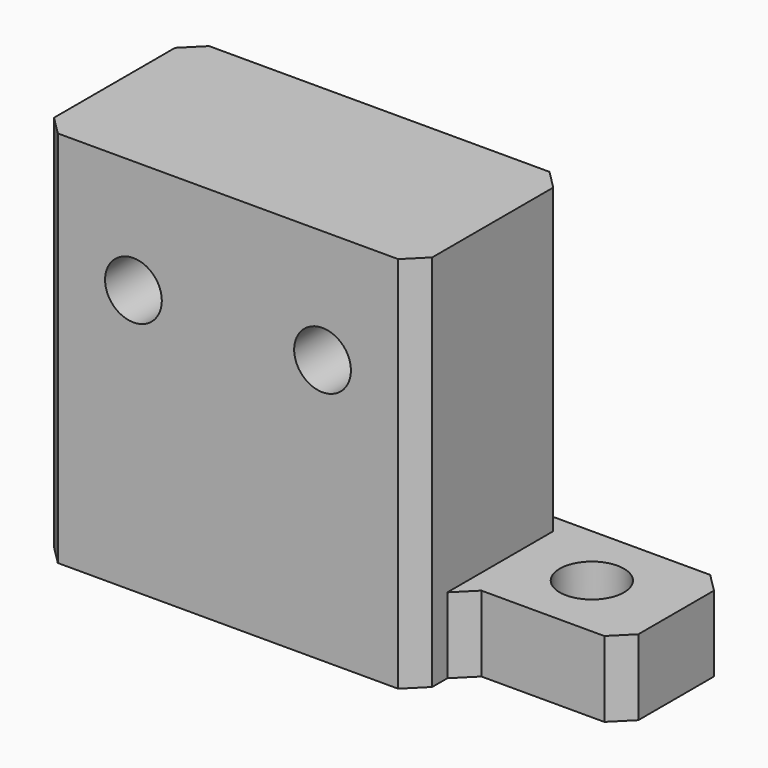
from build123d import *

# Parameters (mm, degrees)
F0_R     = 1.7
F1_DEPTH = 4
F2_DEPTH = 20
F3_R     = 1.5
F4_DEPTH = 10
F5_SIZE  = 1


with BuildPart() as f1:
    # F0 (on Top) → F1 (new body)
    with BuildSketch(Plane.XY):
        Polygon((-4, 3.448833), (-8, 3.448833), (-8, -3.551167), (0.5, -3.551167), (0.5, 3.448833), align=None)
        with Locations((-4, 0)):
            Circle(F0_R, mode=Mode.SUBTRACT)
    extrude(amount=F1_DEPTH)

    # F0 (on Top) → F2 (join)
    with BuildSketch(Plane.XY):
        Polygon((-8, -3.551167), (-8, 3.448833), (-28, 3.448833), (-28, -3.551167), (-28, -6.551167), (-8, -6.551167), align=None)
    extrude(amount=F2_DEPTH)

    # F3 (on face) → F4 (cut, through all)
    with BuildSketch(Plane.XZ.offset(6.551167)):
        with Locations((-13, 14)):
            Circle(F3_R)
        with Locations((-23, 14)):
            Circle(F3_R)
    extrude(amount=-F4_DEPTH, mode=Mode.SUBTRACT)

    # F5
    f5_edges = [f1.edges().sort_by_distance(p)[0] for p in [
        (-8, -6.551167, 10),
        (-28, -6.551167, 10),
        (-8, 3.448833, 12),
        (-28, 3.448833, 10),
        (0.5, -3.551167, 2),
        (-8, -3.551167, 2),
        (0.5, 3.448833, 2),
    ]]
    chamfer(f5_edges, length=F5_SIZE)


solid = f1.part
